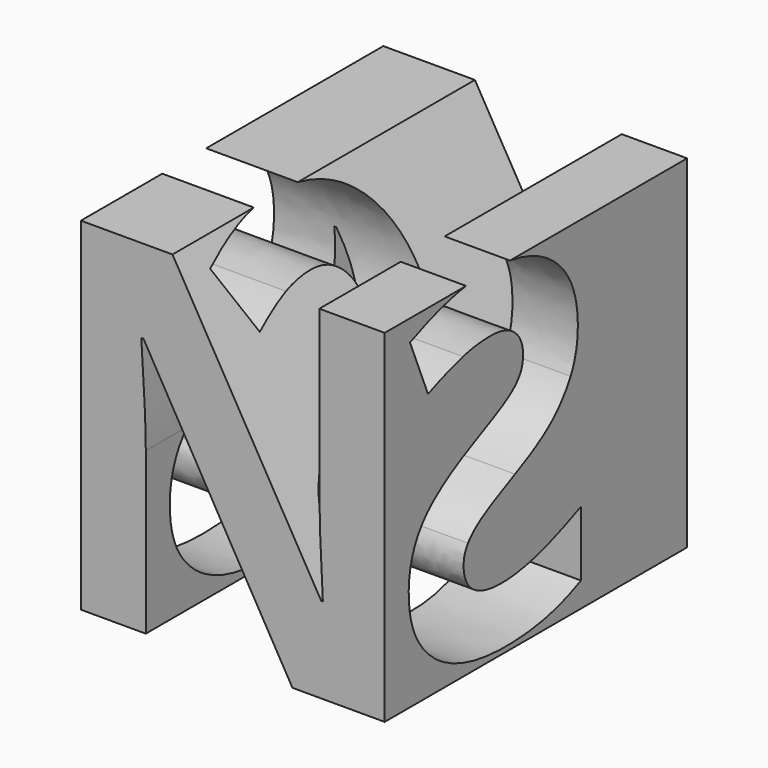
from build123d import *

# Parameters (mm, degrees)
F0_W     = 40
F0_H     = 40
F1_DEPTH = 20
F2_W     = 40
F2_H     = 40
F3_DEPTH = 40.001
F5_DEPTH = 32.1485313314


with BuildPart() as f1:
    # F0 (on Front) → F1 (new body, symmetric)
    with BuildSketch(Plane.XZ):
        Rectangle(F0_W, F0_H)
    extrude(amount=F1_DEPTH, both=True)

    # F2 (on face) → F3 (cut, through all)
    with BuildSketch(Plane.XZ.offset(20)):
        Rectangle(F2_W, F2_H)
        with BuildLine():
            Line((16.7083085465, 19.6906603212), (16.7083085465, -16.5496728138))
            Line((16.7083085465, -16.5496728138), (6.9442791989, -16.5496728138))
            Line((6.9442791989, -16.5496728138), (-8.8241126314, 10.8625817965))
            Line((-8.8241126314, 10.8625817965), (-9.0462026571, 10.8625817965))
            add(Edge.make_bspline(
                [(-9.0462026571, 10.8625817965), (-8.5702954591, 3.6049970256), (-8.5702954591, 0.5036684513)],
                knots=[0, 0, 0, 1, 1, 1], degree=2))
            Line((-8.5702954591, 0.5036684513), (-8.5702954591, -16.5496728138))
            Line((-8.5702954591, -16.5496728138), (-15.4392226849, -16.5496728138))
            Line((-15.4392226849, -16.5496728138), (-15.4392226849, 19.6906603212))
            Line((-15.4392226849, 19.6906603212), (-5.746579417, 19.6906603212))
            Line((-5.746579417, 19.6906603212), (9.9900852667, -7.4519135435))
            Line((9.9900852667, -7.4519135435), (10.1645845727, -7.4519135435))
            add(Edge.make_bspline(
                [(10.1645845727, -7.4519135435), (9.7917906008, -0.3846916518), (9.7917906008, 2.5342058299)],
                knots=[0, 0, 0, 1, 1, 1], degree=2))
            Line((9.7917906008, 2.5342058299), (9.7917906008, 19.6906603212))
            Line((9.7917906008, 19.6906603212), (16.7083085465, 19.6906603212))
        make_face(mode=Mode.SUBTRACT)
    extrude(amount=-F3_DEPTH, mode=Mode.SUBTRACT)

    # F4 (on face) → F5 (cut, through all)
    with BuildSketch(Plane(origin=(-15.4392226849, 0, 0), x_dir=(0, -1, 0), z_dir=(-1, 0, 0))):
        with BuildLine():
            add(Edge.make_bspline(
                [(16.8256673811, -5.8493315213), (16.8256673811, -10.5840589698), (13.4180404371, -13.3109254244)],
                knots=[0, 0, 0, 1, 1, 1], degree=2))
            add(Edge.make_bspline(
                [(15.0090312437, -0.0781653502), (16.8256673811, -2.4302310859), (16.8256673811, -5.8493315213)],
                knots=[0, 0, 0, 1, 1, 1], degree=2))
            add(Edge.make_bspline(
                [(8.2893897841, 4.6221416241), (13.1923951064, 2.2739003855), (15.0090312437, -0.0781653502)],
                knots=[0, 0, 0, 1, 1, 1], degree=2))
            add(Edge.make_bspline(
                [(3.596731804, 7.0698197881), (4.587276561, 6.3890592987), (8.2893897841, 4.6221416241)],
                knots=[0, 0, 0, 1, 1, 1], degree=2))
            add(Edge.make_bspline(
                [(2.1510718884, 8.4810592295), (2.6061870471, 7.7505802775), (3.596731804, 7.0698197881)],
                knots=[0, 0, 0, 1, 1, 1], degree=2))
            add(Edge.make_bspline(
                [(1.6959567298, 10.1906094472), (1.6959567298, 9.2115381816), (2.1510718884, 8.4810592295)],
                knots=[0, 0, 0, 1, 1, 1], degree=2))
            add(Edge.make_bspline(
                [(2.8203588864, 12.7453735309), (1.6959567298, 11.7663022653), (1.6959567298, 10.1906094472)],
                knots=[0, 0, 0, 1, 1, 1], degree=2))
            add(Edge.make_bspline(
                [(6.0482344652, 13.7244447965), (3.944761043, 13.7244447965), (2.8203588864, 12.7453735309)],
                knots=[0, 0, 0, 1, 1, 1], degree=2))
            add(Edge.make_bspline(
                [(9.6432617686, 13.2693296379), (7.8151521398, 13.7244447965), (6.0482344652, 13.7244447965)],
                knots=[0, 0, 0, 1, 1, 1], degree=2))
            add(Edge.make_bspline(
                [(14.2709032974, 11.6668653399), (11.4713713973, 12.8142144792), (9.6432617686, 13.2693296379)],
                knots=[0, 0, 0, 1, 1, 1], degree=2))
            Line((14.2709032974, 11.6668653399), (16.6573895073, 17.4342070138))
            add(Edge.make_bspline(
                [(11.4828448887, 19.247018654), (13.9572945326, 18.604503136), (16.6573895073, 17.4342070138)],
                knots=[0, 0, 0, 1, 1, 1], degree=2))
            add(Edge.make_bspline(
                [(9.2383294282, 19.6906603212), (10.3850519396, 19.5320715372), (11.4828448887, 19.247018654)],
                knots=[0.5563486403, 0.5563486403, 0.5563486403, 1, 1, 1], degree=2))
            Line((9.2383294282, 19.6906603212), (3.42743648, 19.6906603212))
            add(Edge.make_bspline(
                [(-2.4039041949, 17.2391576601), (-0.1213223231, 19.1635241287), (3.42743648, 19.6906603212)],
                knots=[0, 0, 0, 0.7260728655, 0.7260728655, 0.7260728655], degree=2))
            add(Edge.make_bspline(
                [(-5.5476408368, 9.9458416308), (-5.5476408368, 14.5887811481), (-2.4039041949, 17.2391576601)],
                knots=[0, 0, 0, 1, 1, 1], degree=2))
            add(Edge.make_bspline(
                [(-4.591516554, 5.6471068553), (-5.5476408368, 7.4905144725), (-5.5476408368, 9.9458416308)],
                knots=[0, 0, 0, 1, 1, 1], degree=2))
            add(Edge.make_bspline(
                [(-2.0329279732, 2.4192312765), (-3.6353922712, 3.803699238), (-4.591516554, 5.6471068553)],
                knots=[0, 0, 0, 1, 1, 1], degree=2))
            add(Edge.make_bspline(
                [(2.7668159266, -0.4720885547), (-0.4304636752, 1.034763315), (-2.0329279732, 2.4192312765)],
                knots=[0, 0, 0, 1, 1, 1], degree=2))
            add(Edge.make_bspline(
                [(7.2988450271, -2.839452279), (6.1859163619, -2.1013243327), (2.7668159266, -0.4720885547)],
                knots=[0, 0, 0, 1, 1, 1], degree=2))
            add(Edge.make_bspline(
                [(8.985448262, -4.3807246229), (8.4117736923, -3.5775802253), (7.2988450271, -2.839452279)],
                knots=[0, 0, 0, 1, 1, 1], degree=2))
            add(Edge.make_bspline(
                [(9.5591228317, -6.2088342516), (9.5591228317, -5.1838690204), (8.985448262, -4.3807246229)],
                knots=[0, 0, 0, 1, 1, 1], degree=2))
            add(Edge.make_bspline(
                [(8.2549693099, -8.9815946718), (9.5591228317, -8.0522418689), (9.5591228317, -6.2088342516)],
                knots=[0, 0, 0, 1, 1, 1], degree=2))
            add(Edge.make_bspline(
                [(4.5184356127, -9.9109474747), (6.9508157882, -9.9109474747), (8.2549693099, -8.9815946718)],
                knots=[0, 0, 0, 1, 1, 1], degree=2))
            add(Edge.make_bspline(
                [(0.0323004777, -9.2684319566), (2.4838031389, -9.9109474747), (4.5184356127, -9.9109474747)],
                knots=[0, 0, 0, 1, 1, 1], degree=2))
            add(Edge.make_bspline(
                [(-5.9530375327, -7.0425746262), (-2.4192021834, -8.6259164386), (0.0323004777, -9.2684319566)],
                knots=[0, 0, 0, 1, 1, 1], degree=2))
            Line((-5.9530375327, -7.0425746262), (-5.9530375327, -13.9266694625))
            add(Edge.make_bspline(
                [(3.944761043, -16.0377918789), (-1.6543027572, -16.0377918789), (-5.9530375327, -13.9266694625)],
                knots=[0, 0, 0, 1, 1, 1], degree=2))
            add(Edge.make_bspline(
                [(13.4180404371, -13.3109254244), (10.0104134932, -16.0377918789), (3.944761043, -16.0377918789)],
                knots=[0, 0, 0, 1, 1, 1], degree=2))
        make_face()
    extrude(amount=-F5_DEPTH, mode=Mode.SUBTRACT)


solid = f1.part
